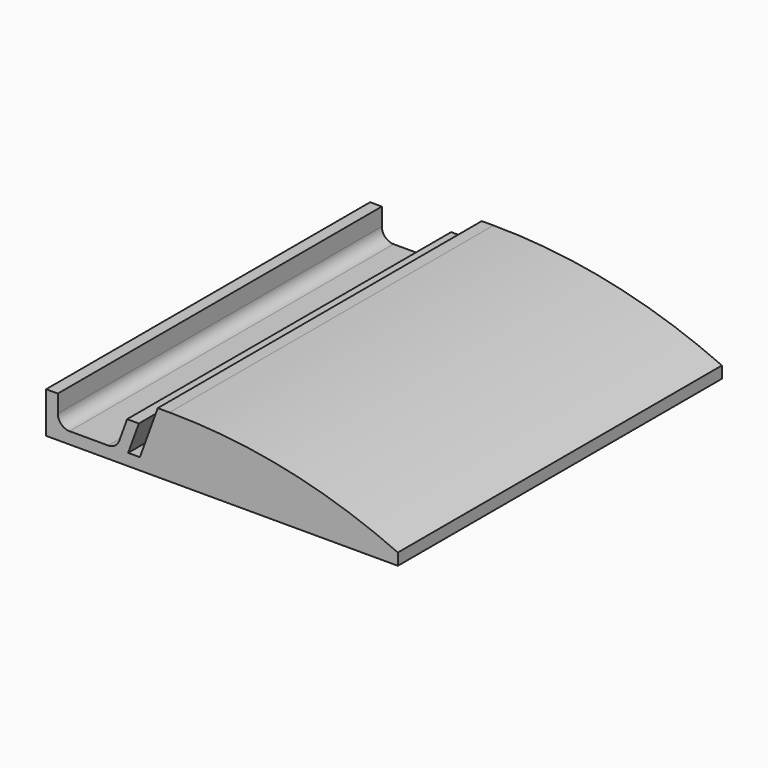
from build123d import *

# Parameters (mm, degrees)
F1_DEPTH = 69.07994
F2_R     = 2
F3_R     = 2


with BuildPart() as f1:
    # F0 (on Front) → F1 (new body)
    with BuildSketch(Plane.XZ):
        with BuildLine():
            Line((0, -2), (0, 0))
            ThreePointArc((0, 0), (-19.035896, 6.244577), (-38.958142, 8.357436))
            Line((-38.958142, 8.357436), (-40.958142, 8.357436))
            Line((-40.958142, 8.357436), (-44, 0))
            Line((-44, 0), (-46, 0))
            Line((-46, 0), (-44.180149, 5))
            Line((-44.180149, 5), (-46.180149, 5))
            Line((-46.180149, 5), (-48, 0))
            Line((-48, 0), (-58, 0))
            Line((-58, 0), (-58, 5))
            Line((-58, 5), (-60, 5))
            Line((-60, 5), (-60, -2))
            Line((-60, -2), (0, -2))
        make_face()
    extrude(amount=-F1_DEPTH)

    # F2
    f2_edges = [f1.edges().sort_by_distance(p)[0] for p in [
        (-48, 34.53997, 0),
    ]]
    fillet(f2_edges, radius=F2_R)

    # F3
    f3_edges = [f1.edges().sort_by_distance(p)[0] for p in [
        (-58, 34.53997, 0),
    ]]
    fillet(f3_edges, radius=F3_R)


solid = f1.part
